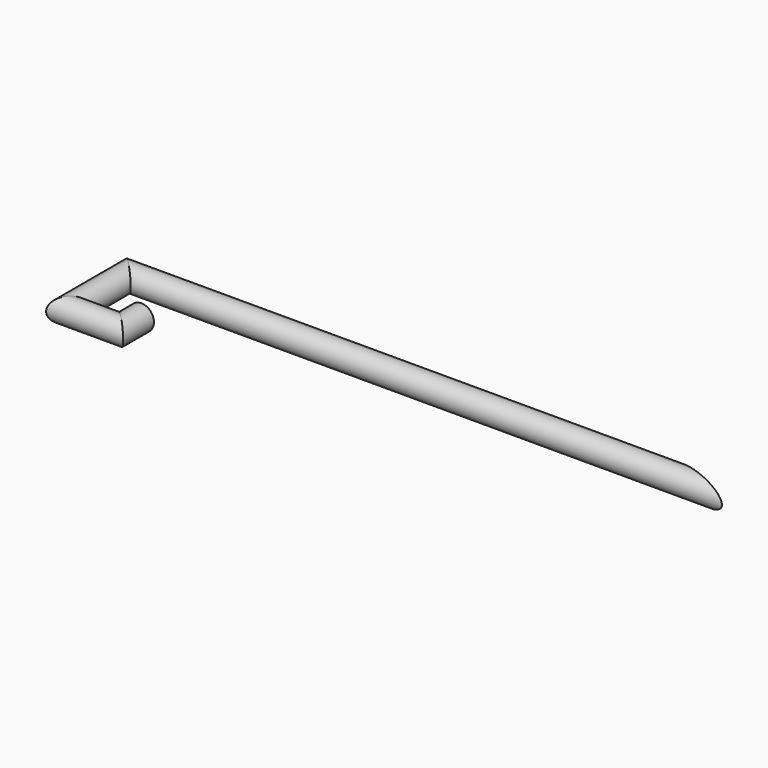
from build123d import *

# Parameters (mm, degrees)
F2_R     = 1.4
F5_DEPTH = 12.5


with BuildPart() as f3:
    # F3: sweep along a path in F0
    with BuildLine(Plane.XY) as f3_path:
        Line((0, -1.5), (0, -3))
        Line((0, -3), (-3, -3))
        Line((-3, -3), (-3, 2.5))
        Line((-3, 2.5), (63, 2.5))
    # F2 (on plane+point) → F3 (sweep)
    with BuildSketch(Plane.XZ.offset(1.5)):
        with Locations((1.4, 0)):
            Circle(F2_R)
    sweep(path=f3_path.line, transition=Transition.RIGHT)

    # F4 (on Top) → F5 (cut, symmetric)
    with BuildSketch(Plane.XY):
        Polygon((63, 2.5), (63, 5.3), (55.3070632255, 5.3), align=None)
    extrude(amount=F5_DEPTH, both=True, mode=Mode.SUBTRACT)


solid = f3.part
